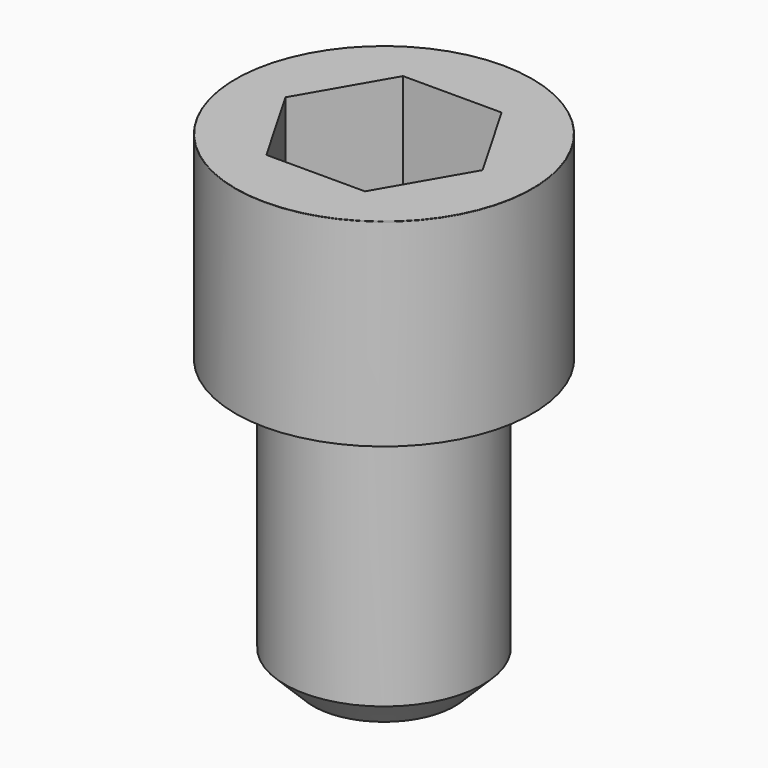
from build123d import *

# Parameters (mm, degrees)
POCKET_DEPTH = 12.07


with BuildPart() as part:
    # Sketch → Revolve (revolve)
    with BuildSketch(Plane.YZ):
        with BuildLine():
            Line((6.999, 0), (10.5, 0))
            Line((10.5, 0), (10.5, 13.97229))
            ThreePointArc((10.5, 13.97229), (10.491884, 13.991884), (10.47229, 14))
            Line((10.47229, 14), (0, 14))
            Line((0, -20), (0, 14))
            Line((5, -20), (0, -20))
            Line((7, -18), (5, -20))
            Line((7, -0.2), (7, -18))
            Line((6.999, 0), (7, -0.2))
        make_face()
    revolve(axis=Axis((0, 0, 0), (0, 0, 1)))

    # Sketch001 → Pocket (cut)
    with BuildSketch(Plane.XY.offset(14)):
        Polygon((6.968618, 0), (3.484309, 6.035), (-3.484309, 6.035), (-6.968618, 0), (-3.484309, -6.035), (3.484309, -6.035), align=None)
    extrude(amount=-POCKET_DEPTH, mode=Mode.SUBTRACT)


solid = part.part
